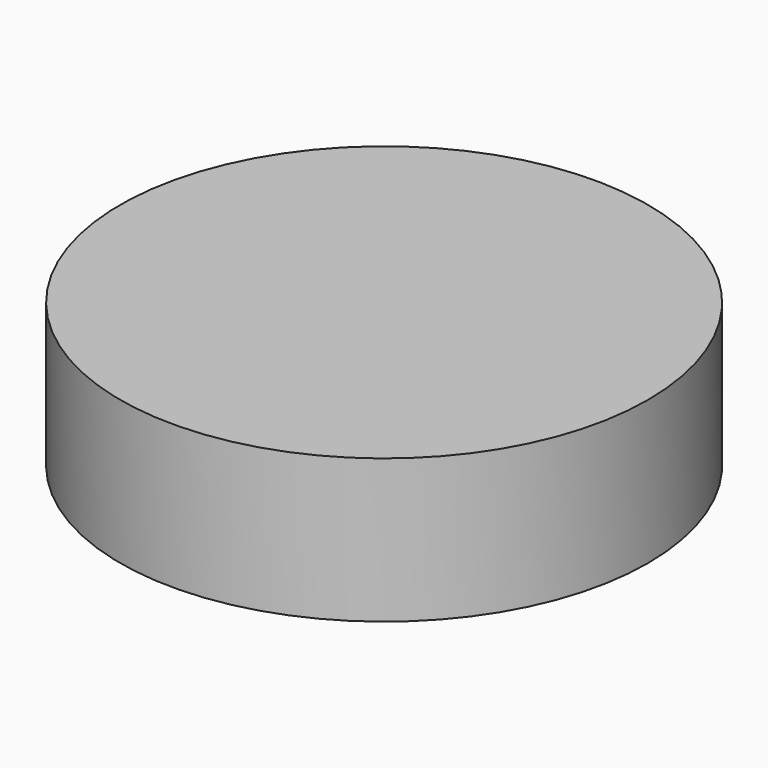
from build123d import *

# Parameters (mm, degrees)
F0_R     = 10.730275
F1_DEPTH = 5.842
F2_R     = 2.414292
F3_DEPTH = 3.7338


with BuildPart() as f1:
    # F0 (on Top) → F1 (new body)
    with BuildSketch(Plane.XY):
        Circle(F0_R)
    extrude(amount=F1_DEPTH)

    # F2 (on face) → F3 (join)
    with BuildSketch(Plane.XY):
        Circle(F2_R)
    extrude(amount=-F3_DEPTH)


solid = f1.part
